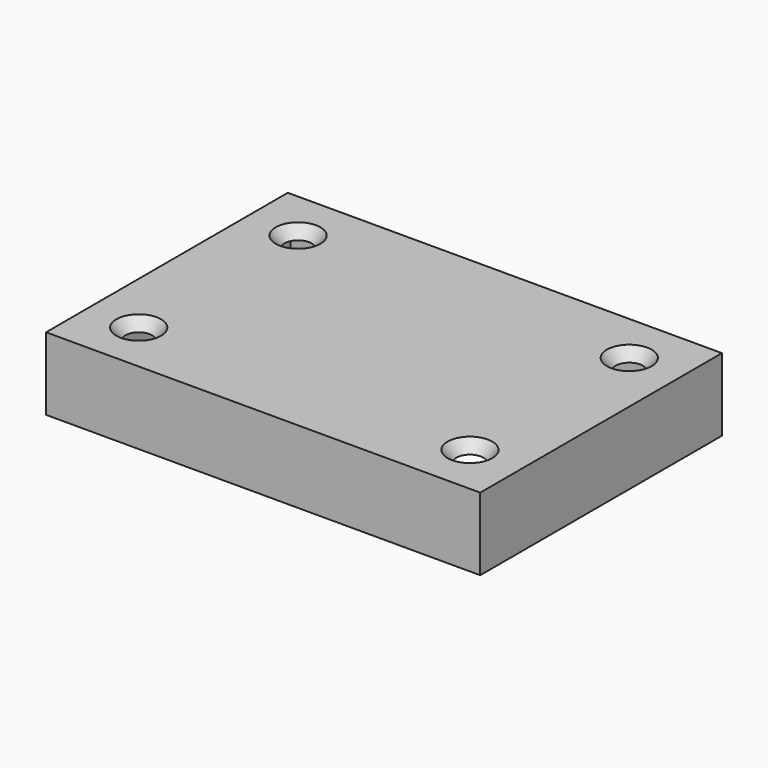
from build123d import *

# Parameters (mm, degrees)
BOX009_W          = 36.4
BOX009_H          = 24.6
BOX009_DEPTH      = 6.5
BOX008_W          = 38.8
BOX008_H          = 27
BOX008_DEPTH      = 6.5
CYLINDER008_R     = 1.2
CYLINDER008_DEPTH = 10
ARRAY012_X_COUNT  = 2
ARRAY012_X_PITCH  = 29.6
ARRAY012_Y_COUNT  = 2
ARRAY012_Y_PITCH  = 17.8
BOX011_W          = 4.6
BOX011_H          = 1
BOX011_DEPTH      = 10
CYLINDER004_R     = 1.5
CYLINDER004_DEPTH = 10
CYLINDER005_R     = 2.3
CYLINDER005_DEPTH = 10
ARRAY004_X_COUNT  = 2
ARRAY004_X_PITCH  = 11.8
BOX006_W          = 36.4
BOX006_H          = 24.6
BOX006_DEPTH      = 0.5
CYLINDER_R        = 1.2
CYLINDER_DEPTH    = 10
ARRAY001_X_COUNT  = 2
ARRAY001_X_PITCH  = 29.6
ARRAY001_Y_COUNT  = 2
ARRAY001_Y_PITCH  = 17.8
BOX003_W          = 23.6
BOX003_H          = 11.8
BOX003_DEPTH      = 10
BOX007_W          = 36.4
BOX007_H          = 24.6
BOX007_DEPTH      = 0.5


with BuildPart() as outer_wall_hole_cube:
    # Box009 → Box009 (new body)
    with BuildSketch(Plane(origin=(-0.4, -0.4, 0), x_dir=(1, 0, 0), z_dir=(0, 0, 1))):
        with Locations((18.2, 12.3)):
            Rectangle(BOX009_W, BOX009_H)
    extrude(amount=BOX009_DEPTH)


with BuildPart() as outer_wall_cut:
    # Box008 → Box008 (new body)
    with BuildSketch(Plane(origin=(-1.6, -1.6, 0), x_dir=(1, 0, 0), z_dir=(0, 0, 1))):
        with Locations((19.4, 13.5)):
            Rectangle(BOX008_W, BOX008_H)
    extrude(amount=BOX008_DEPTH)

    # Cut004: cut outer wall hole cube
    add(outer_wall_hole_cube.part, mode=Mode.SUBTRACT)


with BuildPart() as outer_wall_cut_1:
    # Cut004 placement: moved
    add(outer_wall_cut.part.moved(Location((0, 0, -5.5))))


with BuildPart() as bolt_hole003:
    # Cylinder008 → Cylinder008 (new body)
    with BuildSketch(Plane.XY.offset(-10)):
        Circle(CYLINDER008_R)
    extrude(amount=CYLINDER008_DEPTH)


with BuildPart() as bolt_hole_fusion_array:
    # Cone → Cone (revolve)
    with BuildSketch(Plane.XZ):
        Polygon((0, 0), (1.2, 0), (2, 1), (0, 1), align=None)
    revolve(axis=Axis((0, 0, 0), (0, 0, 1)))

    # Fusion011: union bolt hole003
    add(bolt_hole003.part)

    # Array012 X: bolt hole fusion array ×2


with BuildPart() as bolt_hole_fusion_array_1:
    add(bolt_hole_fusion_array.part)
    with Locations(*[(i * ARRAY012_X_PITCH, 0, 0) for i in range(1, ARRAY012_X_COUNT)]):
        add(bolt_hole_fusion_array.part)

    # Array012 Y: bolt hole fusion array ×2


with BuildPart() as bolt_hole_fusion_array_2:
    add(bolt_hole_fusion_array_1.part)
    with Locations(*[(0, i * ARRAY012_Y_PITCH, 0) for i in range(1, ARRAY012_Y_COUNT)]):
        add(bolt_hole_fusion_array_1.part)


with BuildPart() as bolt_hole_fusion_array_3:
    # Array012 placement: moved
    add(bolt_hole_fusion_array_2.part.moved(Location((3, 3, 0))))


with BuildPart() as obj1:
    # Box011 → Box011 (new body)
    with BuildSketch(Plane(origin=(-2.3, -0.5, 0), x_dir=(1, 0, 0), z_dir=(0, 0, 1))):
        with Locations((2.3, 0.5)):
            Rectangle(BOX011_W, BOX011_H)
    extrude(amount=BOX011_DEPTH)


with BuildPart() as obj2:
    # Cylinder004 → Cylinder004 (new body)
    with BuildSketch(Plane.XY):
        Circle(CYLINDER004_R)
    extrude(amount=CYLINDER004_DEPTH)

    # Fusion008: union obj1
    add(obj1.part)


with BuildPart() as top_hole_fusion:
    # Cylinder005 → Cylinder005 (new body)
    with BuildSketch(Plane.XY.offset(-9.5)):
        Circle(CYLINDER005_R)
    extrude(amount=CYLINDER005_DEPTH)

    # Cut006: cut obj2
    add(obj2.part, mode=Mode.SUBTRACT)

    # Array004 X: top hole fusion ×2


with BuildPart() as top_hole_fusion_1:
    add(top_hole_fusion.part)
    with Locations(*[(i * ARRAY004_X_PITCH, 0, 0) for i in range(1, ARRAY004_X_COUNT)]):
        add(top_hole_fusion.part)


with BuildPart() as top_hole_fusion_2:
    # Array004 placement: moved
    add(top_hole_fusion_1.part.moved(Location((11.9, 11.9, 0))))

    # Fusion004: union bolt hole fusion array
    add(bolt_hole_fusion_array_3.part)


with BuildPart() as thin_top_plate:
    # Box006 → Box006 (new body)
    with BuildSketch(Plane(origin=(-0.4, -0.4, 0.5), x_dir=(1, 0, 0), z_dir=(0, 0, 1))):
        with Locations((18.2, 12.3)):
            Rectangle(BOX006_W, BOX006_H)
    extrude(amount=BOX006_DEPTH)


with BuildPart() as bolt_hole_array_clone:
    # Cylinder → Cylinder (new body)
    with BuildSketch(Plane.XY):
        Circle(CYLINDER_R)
    extrude(amount=CYLINDER_DEPTH)

    # Array001 X: bolt hole array clone ×2


with BuildPart() as bolt_hole_array_clone_1:
    add(bolt_hole_array_clone.part)
    with Locations(*[(i * ARRAY001_X_PITCH, 0, 0) for i in range(1, ARRAY001_X_COUNT)]):
        add(bolt_hole_array_clone.part)

    # Array001 Y: bolt hole array clone ×2


with BuildPart() as bolt_hole_array_clone_2:
    add(bolt_hole_array_clone_1.part)
    with Locations(*[(0, i * ARRAY001_Y_PITCH, 0) for i in range(1, ARRAY001_Y_COUNT)]):
        add(bolt_hole_array_clone_1.part)


with BuildPart() as bolt_hole_array_clone_3:
    # Array001 placement: moved
    add(bolt_hole_array_clone_2.part.moved(Location((3, 3, 0))))


with BuildPart() as mesh_extraction_fusion_clone:
    # Box003 → Box003 (new body)
    with BuildSketch(Plane(origin=(6, 6, 0), x_dir=(1, 0, 0), z_dir=(0, 0, 1))):
        with Locations((11.8, 5.9)):
            Rectangle(BOX003_W, BOX003_H)
    extrude(amount=BOX003_DEPTH)

    # Fusion003: union bolt hole array clone
    add(bolt_hole_array_clone_3.part)


with BuildPart() as top_cover_plate_fusion:
    # Box007 → Box007 (new body)
    with BuildSketch(Plane(origin=(-0.4, -0.4, 0), x_dir=(1, 0, 0), z_dir=(0, 0, 1))):
        with Locations((18.2, 12.3)):
            Rectangle(BOX007_W, BOX007_H)
    extrude(amount=BOX007_DEPTH)

    # Cut003: cut mesh extraction fusion clone
    add(mesh_extraction_fusion_clone.part, mode=Mode.SUBTRACT)

    # Fusion012: union thin top plate
    add(thin_top_plate.part)

    # Cut002: cut top hole fusion
    add(top_hole_fusion_2.part, mode=Mode.SUBTRACT)

    # Fusion005: union outer wall cut
    add(outer_wall_cut_1.part)


solid = top_cover_plate_fusion.part
